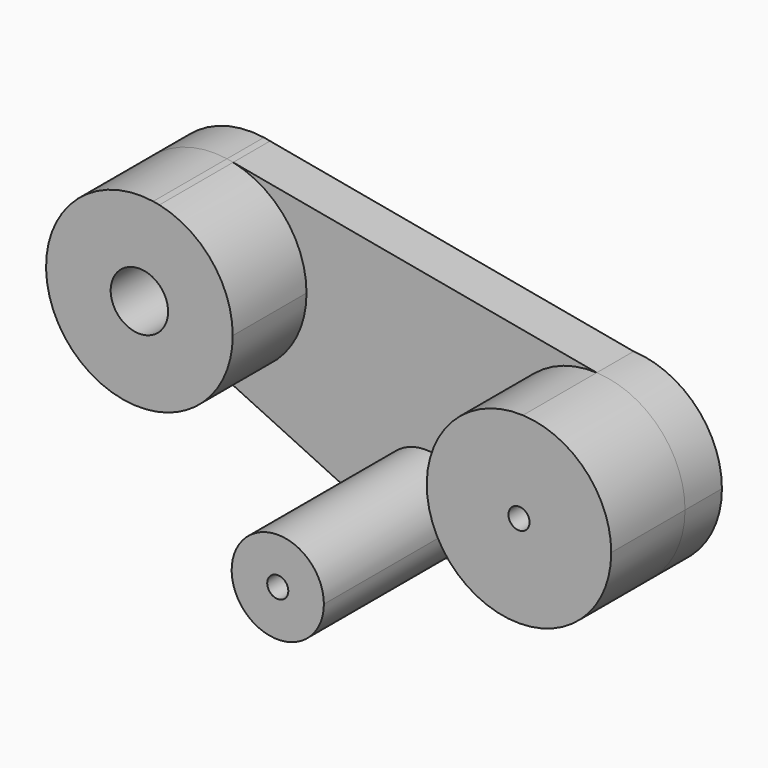
from build123d import *

# Parameters (mm, degrees)
F0_R     = 2.904063
F1_DEPTH = 50.8
F2_DEPTH = 25.4
F0_R_2   = 7.902878
F3_DEPTH = 25.4
F4_DEPTH = 12.7


with BuildPart() as f1:
    # F0 (on Front) → F1 (new body)
    with BuildSketch(Plane.XZ):
        with BuildLine():
            ThreePointArc((2.284209, -12.492894), (9.754472, -8.132667), (12.7, 0))
            ThreePointArc((12.7, 0), (-6.787481, 10.734062), (-5.444897, -11.473583))
            ThreePointArc((-5.444897, -11.473583), (-1.660493, -12.590979), (2.284209, -12.492894))
        make_face()
        Circle(F0_R, mode=Mode.SUBTRACT)
    extrude(amount=F1_DEPTH)


with BuildPart() as f2:
    # F0 (on Front) → F2 (new body)
    with BuildSketch(Plane.XZ):
        with BuildLine():
            ThreePointArc((47.202785, 46.685481), (20.738901, 20.202702), (49.406712, -3.876984))
            ThreePointArc((49.406712, -3.876984), (65.203735, 4.552516), (71.514806, 21.308793))
            ThreePointArc((71.514806, 21.308793), (64.455944, 38.880437), (47.202785, 46.685481))
        make_face()
        with Locations((46.114806, 21.308793)):
            Circle(F0_R, mode=Mode.SUBTRACT)
    extrude(amount=F2_DEPTH)


with BuildPart() as f3:
    # F0 (on Front) → F3 (new body)
    with BuildSketch(Plane.XZ):
        with BuildLine():
            ThreePointArc((-54.626815, 65.42638), (-83.995208, 42.614884), (-59.840918, 14.340564))
            ThreePointArc((-59.840918, 14.340564), (-40.757303, 21.335846), (-32.721072, 40.005001))
            ThreePointArc((-32.721072, 40.005001), (-38.398541, 56.117974), (-52.922834, 65.112777))
            Line((-52.922834, 65.112777), (-54.626815, 65.42638))
        make_face()
        with Locations((-58.424562, 40.005001)):
            Circle(F0_R_2, mode=Mode.SUBTRACT)
    extrude(amount=F3_DEPTH)


with BuildPart() as f4:
    # F0 (on Front) → F4 (new body)
    with BuildSketch(Plane.XZ):
        with BuildLine():
            ThreePointArc((2.284209, -12.492894), (9.754472, -8.132667), (12.7, 0))
            ThreePointArc((12.7, 0), (-6.787481, 10.734062), (-5.444897, -11.473583))
            ThreePointArc((-5.444897, -11.473583), (-1.660493, -12.590979), (2.284209, -12.492894))
        make_face()
        Circle(F0_R, mode=Mode.SUBTRACT)
        with BuildLine():
            ThreePointArc((-5.444897, -11.473583), (-6.787481, 10.734062), (12.7, 0))
            ThreePointArc((12.7, 0), (9.754472, -8.132667), (2.284209, -12.492894))
            Line((2.284209, -12.492894), (49.406712, -3.876984))
            ThreePointArc((49.406712, -3.876984), (20.738901, 20.202702), (47.202785, 46.685481))
            Line((47.202785, 46.685481), (-52.922834, 65.112777))
            ThreePointArc((-52.922834, 65.112777), (-38.398541, 56.117974), (-32.721072, 40.005001))
            ThreePointArc((-32.721072, 40.005001), (-40.757303, 21.335846), (-59.840918, 14.340564))
            Line((-59.840918, 14.340564), (-5.444897, -11.473583))
        make_face()
        with BuildLine():
            ThreePointArc((-54.626815, 65.42638), (-83.995208, 42.614884), (-59.840918, 14.340564))
            ThreePointArc((-59.840918, 14.340564), (-40.757303, 21.335846), (-32.721072, 40.005001))
            ThreePointArc((-32.721072, 40.005001), (-38.398541, 56.117974), (-52.922834, 65.112777))
            Line((-52.922834, 65.112777), (-54.626815, 65.42638))
        make_face()
        with Locations((-58.424562, 40.005001)):
            Circle(F0_R_2, mode=Mode.SUBTRACT)
        with BuildLine():
            ThreePointArc((47.202785, 46.685481), (20.738901, 20.202702), (49.406712, -3.876984))
            ThreePointArc((49.406712, -3.876984), (65.203735, 4.552516), (71.514806, 21.308793))
            ThreePointArc((71.514806, 21.308793), (64.455944, 38.880437), (47.202785, 46.685481))
        make_face()
        with Locations((46.114806, 21.308793)):
            Circle(F0_R, mode=Mode.SUBTRACT)
        with BuildLine():
            ThreePointArc((-52.922834, 65.112777), (-53.772181, 65.28394), (-54.626815, 65.42638))
            Line((-54.626815, 65.42638), (-52.922834, 65.112777))
        make_face()
    extrude(amount=-F4_DEPTH)


solid = Compound([f1.part, f2.part, f3.part, f4.part])
